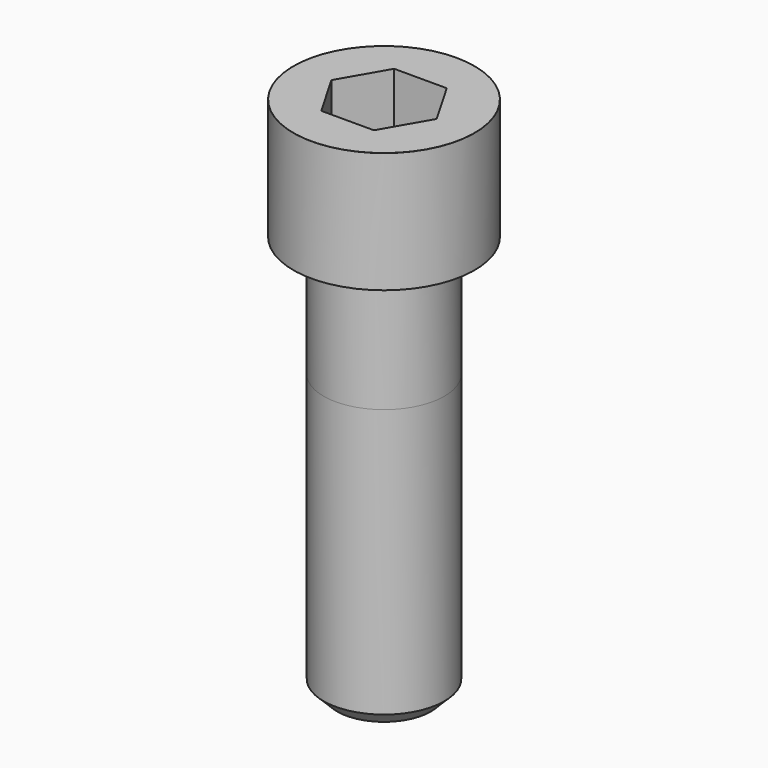
from build123d import *

# Parameters (mm, degrees)
POCKET_DEPTH = 27.15


with BuildPart() as part:
    # Sketch → Revolve (revolve)
    with BuildSketch(Plane.YZ):
        with BuildLine():
            Line((17.999, 0), (27, 0))
            Line((27, 0), (27, 35.97229))
            ThreePointArc((27, 35.97229), (26.991884, 35.991884), (26.97229, 36))
            Line((26.97229, 36), (0, 36))
            Line((0, -120), (0, 36))
            Line((14, -120), (0, -120))
            Line((18, -116), (14, -120))
            Line((18, -36), (18, -116))
            Line((17.999, 0), (18, -36))
        make_face()
    revolve(axis=Axis((0, 0, 0), (0, 0, 1)))

    # Sketch001 → Pocket (cut)
    with BuildSketch(Plane.XY.offset(36)):
        Polygon((15.67506, 0), (7.83753, 13.575), (-7.83753, 13.575), (-15.67506, 0), (-7.83753, -13.575), (7.83753, -13.575), align=None)
    extrude(amount=-POCKET_DEPTH, mode=Mode.SUBTRACT)


solid = part.part
